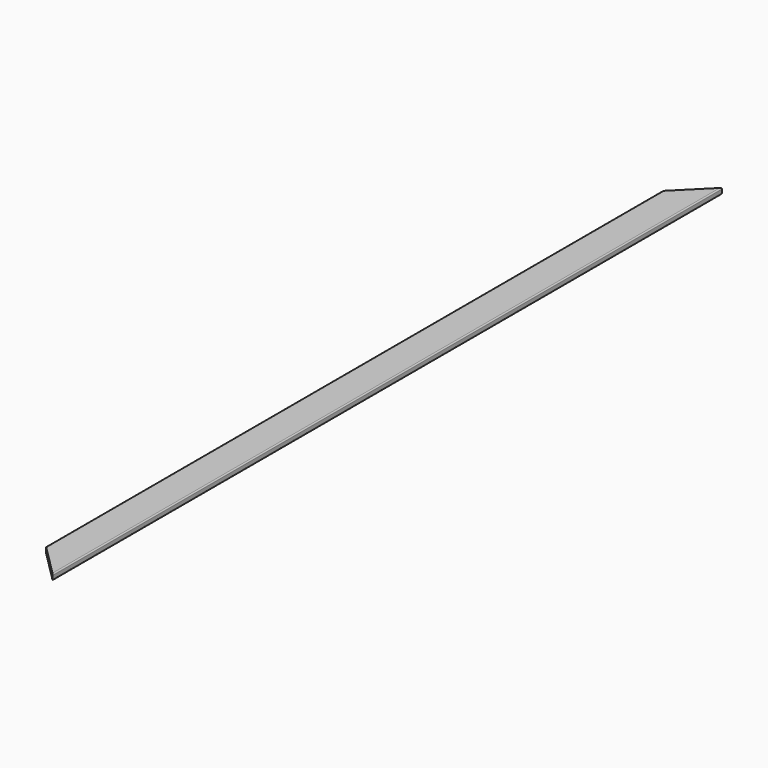
from build123d import *

# Parameters (mm, degrees)
F1_DEPTH = 1714.5
F3_DEPTH = 23.877


with BuildPart() as f1:
    # F0 (on Front) → F1 (new body, symmetric)
    with BuildSketch(Plane.XZ):
        with BuildLine():
            Line((63.246, 11.938), (-63.246, 11.938))
            ThreePointArc((-63.246, 11.938), (-66.658497, 10.524497), (-68.072, 7.112))
            Line((-68.072, 7.112), (-68.072, -7.112))
            ThreePointArc((-68.072, -7.112), (-66.658497, -10.524497), (-63.246, -11.938))
            Line((-63.246, -11.938), (63.246, -11.938))
            ThreePointArc((63.246, -11.938), (66.658497, -10.524497), (68.072, -7.112))
            Line((68.072, -7.112), (68.072, 7.112))
            ThreePointArc((68.072, 7.112), (66.658497, 10.524497), (63.246, 11.938))
        make_face()
    extrude(amount=F1_DEPTH, both=True)

    # F2 (on face) → F3 (cut, through all)
    with BuildSketch(Plane.XY.offset(11.938)):
        Polygon((68.072, -1714.5), (-68.072, -1578.356), (-68.072, -1714.5), align=None)
        Polygon((-68.072, 1714.5), (-68.072, 1578.356), (68.072, 1714.5), align=None)
    extrude(amount=-F3_DEPTH, mode=Mode.SUBTRACT)


solid = f1.part
